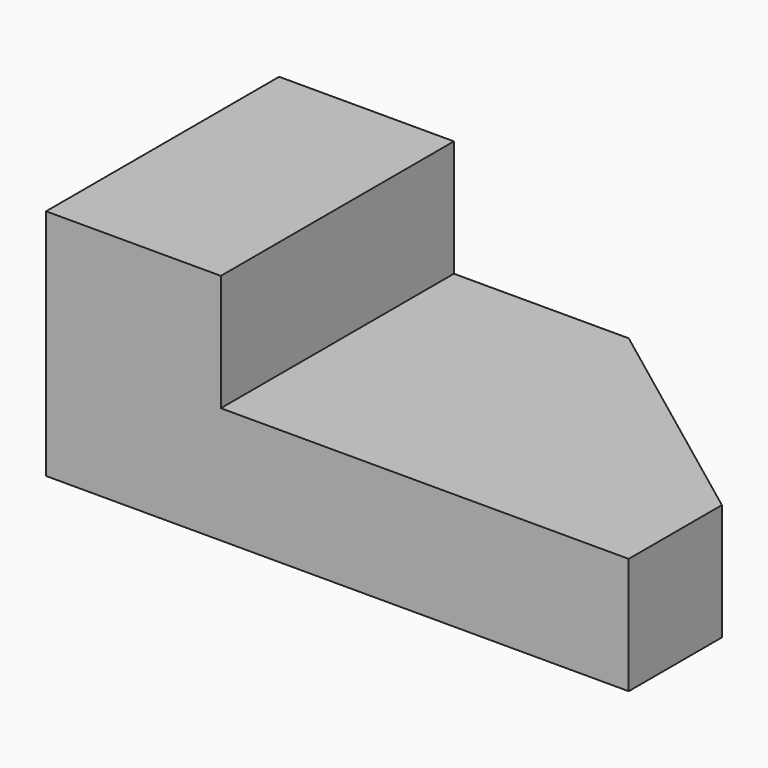
from build123d import *

# Parameters (mm, degrees)
PAD_DEPTH    = 20
SKETCH001_W  = 30
SKETCH001_H  = 50
PAD001_DEPTH = 20
SKETCH004_R  = 4
POCKET_DEPTH = 5


with BuildPart() as part:
    # Sketch → Pad (new body)
    with BuildSketch(Plane.XY):
        Polygon((0, 0), (0, 50), (60, 50), (100, 20), (100, 0), align=None)
    extrude(amount=PAD_DEPTH)

    # Sketch001 (on Face7 of Pad) → Pad001 (join)
    with BuildSketch(Plane.XY.offset(20)):
        with Locations((15, 25)):
            Rectangle(SKETCH001_W, SKETCH001_H)
    extrude(amount=PAD001_DEPTH)

    # Sketch004 (on Face7 of Pad001) → Pocket (cut)
    with BuildSketch(Plane(origin=(0, 0, 0), x_dir=(0, -1, 0), z_dir=(-1, 0, 0))):
        with Locations((-10, 10)):
            Circle(SKETCH004_R)
    extrude(amount=-POCKET_DEPTH, mode=Mode.SUBTRACT)


solid = part.part
